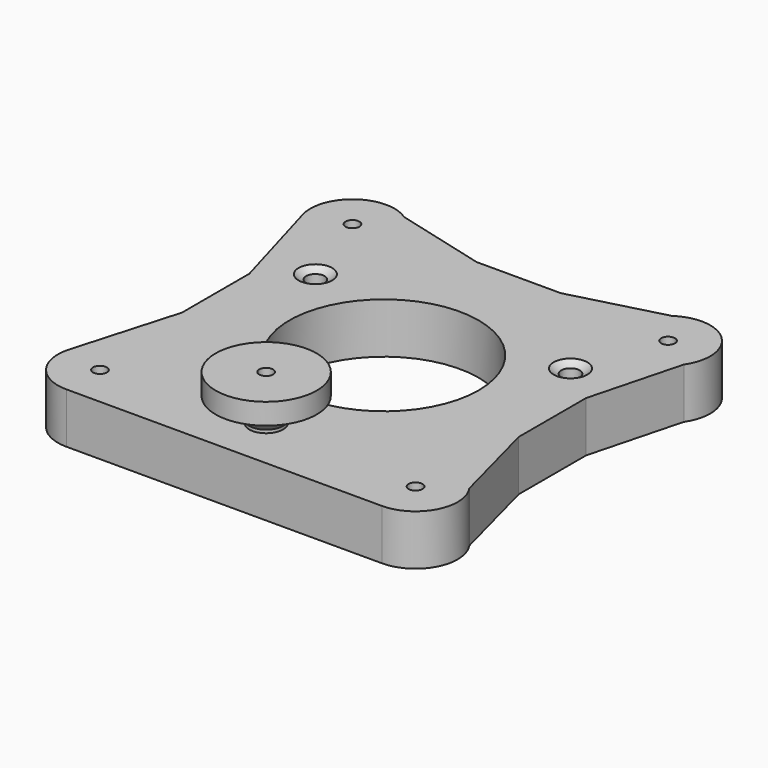
from build123d import *

# Parameters (mm, degrees)
F1_DEPTH        = 12
F15_D           = 3.3
F16_D           = 4.4
F18_D           = 4.4
F18_DEPTH       = 7.1
F18_CBORE_D     = 8.25
F18_CBORE_DEPTH = 7
F18_TIP         = 1.3218933619
F19_D           = 3.3
F20_R           = 22.5
F21_DEPTH       = 12
F22_SIZE        = 5


with BuildPart() as f1:
    # F0 (on Top) → F1 (new body)
    with BuildSketch(Plane.XY):
        with BuildLine():
            Line((-10, 40), (-31.8472735229, 45.749041361))
            ThreePointArc((-31.8472735229, 45.749041361), (-43.3507237994, 45.6098107884), (-47.1108140615, 34.7373467329))
            Line((-47.1108140615, 34.7373467329), (-40, 10))
            Line((-40, 10), (-40, -10))
            Line((-40, -10), (-47.1108140615, -34.7373467329))
            ThreePointArc((-47.1108140615, -34.7373467329), (-45.4883206205, -43.5155410118), (-37.5, -47.5))
            Line((-37.5, -47.5), (37.5, -47.5))
            ThreePointArc((37.5, -47.5), (46.3466735209, -42.1622277523), (45.749041361, -31.8472735229))
            Line((45.749041361, -31.8472735229), (40, -10))
            Line((40, -10), (40, 10))
            Line((40, 10), (45.749041361, 31.8472735229))
            ThreePointArc((45.749041361, 31.8472735229), (44.5710678119, 44.5710678119), (31.8472735229, 45.749041361))
            Line((31.8472735229, 45.749041361), (10, 40))
            Line((10, 40), (-10, 40))
        make_face()
    extrude(amount=F1_DEPTH)

    # F4 (on plane+point) → F7 (revolve, cut)
    with BuildSketch(Plane(origin=(0, -35, 0), x_dir=(-1, 0, 0), z_dir=(0, 1, 0))):
        with BuildLine():
            ThreePointArc((0, 10.472135955), (2.1409325386, 10.8671018012), (4, 12))
            Line((4, 12), (0, 12))
            Line((0, 12), (0, 10.472135955))
        make_face()
    revolve(axis=Axis((0, -35, 26.2402286232), (0, 0, 1)), mode=Mode.SUBTRACT)

    # F6 (on line) → F8 (revolve, cut)
    with BuildSketch(Plane(origin=(0, 0, 0), x_dir=(0.8660254038, -0.5, 0), z_dir=(-0.5, -0.8660254038, 0))):
        with BuildLine():
            ThreePointArc((-35, 10.472135955), (-32.8590674614, 10.8671018012), (-31, 12))
            Line((-31, 12), (-35, 12))
            Line((-35, 12), (-35, 10.472135955))
        make_face()
    revolve(axis=Axis((-30.3108891325, 17.5, 26.2402286232), (0, 0, 1)), mode=Mode.SUBTRACT)

    # F10 (on line) → F11 (revolve, cut)
    with BuildSketch(Plane(origin=(0, 0, 0), x_dir=(-0.8660254038, -0.5, 0), z_dir=(-0.5, 0.8660254038, 0))):
        with BuildLine():
            ThreePointArc((-35, 10.472135955), (-32.8590674614, 10.8671018012), (-31, 12))
            Line((-31, 12), (-35, 12))
            Line((-35, 12), (-35, 10.472135955))
        make_face()
    revolve(axis=Axis((30.3108891325, 17.5, 26.2402286232), (0, 0, 1)), mode=Mode.SUBTRACT)

    # F16 (through all)
    with Locations(Plane.XY.offset(12)):
        with Locations((30.3108891325, 17.5), (-30.3108891325, 17.5), (0, -35)):
            Hole(F16_D / 2)

    # F18
    with Locations(Plane(origin=(0, 0, 0), x_dir=(1, 0, 0), z_dir=(0, 0, -1))):
        with Locations((-30.3108891325, -17.5), (0, 35), (30.3108891325, -17.5)):
            CounterBoreHole(F18_D / 2, F18_CBORE_D / 2, F18_CBORE_DEPTH, depth=F18_DEPTH)
            with Locations((0, 0, -(F18_DEPTH + F18_TIP / 2))):  # 118° drill point
                Cone(0, F18_D / 2, F18_TIP, mode=Mode.SUBTRACT)

    # F19 (through all)
    with Locations(Plane(origin=(0, 0, 0), x_dir=(1, 0, 0), z_dir=(0, 0, -1))):
        with Locations((-37.5, -37.5), (-37.5, 37.5), (37.5, 37.5), (37.5, -37.5)):
            Hole(F19_D / 2)

    # F20 (on face) → F21 (cut, through all)
    with BuildSketch(Plane.XY):
        Circle(F20_R)
    extrude(amount=F21_DEPTH, mode=Mode.SUBTRACT)


with BuildPart() as f13:
    # F12 (on plane+point) → F13 (revolve)
    with BuildSketch(Plane(origin=(0, -35, 0), x_dir=(-1, 0, 0), z_dir=(0, 1, 0))):
        with BuildLine():
            Line((0, 12), (0, 10.472135955))
            ThreePointArc((0, 10.472135955), (2.1409325386, 10.8671018012), (4, 12))
            Line((4, 12), (4, 17.7461159229))
            Line((4, 17.7461159229), (12, 17.7461159229))
            Line((12, 17.7461159229), (12, 22.7461159229))
            Line((12, 22.7461159229), (0, 22.7461159229))
            Line((0, 22.7461159229), (0, 16.472135955))
            Line((0, 16.472135955), (0, 12))
        make_face()
    revolve(axis=Axis((0, -35, 19.609125939), (0, 0, -1)))

    # F15 (through all)
    with Locations(Plane.XY.offset(22.7461159229)):
        with Locations((0, -35)):
            Hole(F15_D / 2)

    # F22
    f22_edges = [f13.edges().sort_by_distance(p)[0] for p in [
        (4, -35, 17.746116),
    ]]
    chamfer(f22_edges, length=F22_SIZE)


solid = Compound([f1.part, f13.part])
